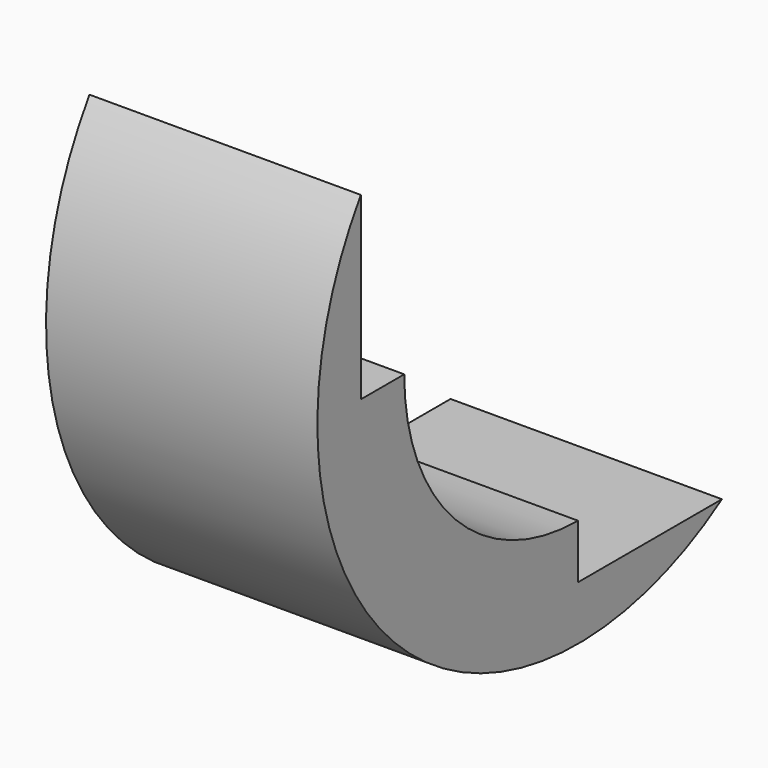
from build123d import *

# Parameters (mm, degrees)
BOX006_W      = 5
BOX006_H      = 10
BOX006_DEPTH  = 8
BOX005_W      = 5
BOX005_H      = 8
BOX005_DEPTH  = 10
TUBE002_R     = 6
TUBE002_R_2   = 4
TUBE002_DEPTH = 5


with BuildPart() as cube006:
    # Box006 → Box006 (new body)
    with BuildSketch(Plane(origin=(0, -2, 3), x_dir=(1, 0, 0), z_dir=(0, 0, 1))):
        with Locations((2.5, 5)):
            Rectangle(BOX006_W, BOX006_H)
    extrude(amount=BOX006_DEPTH)


with BuildPart() as cube005:
    # Box005 → Box005 (new body)
    with BuildSketch(Plane(origin=(0, 3, -2), x_dir=(1, 0, 0), z_dir=(0, 0, 1))):
        with Locations((2.5, 4)):
            Rectangle(BOX005_W, BOX005_H)
    extrude(amount=BOX005_DEPTH)


with BuildPart() as cut005:
    # Tube002 → Tube002 (new body)
    with BuildSketch(Plane(origin=(0, 3, 3), x_dir=(0, 0, -1), z_dir=(1, 0, 0))):
        Circle(TUBE002_R)
        Circle(TUBE002_R_2, mode=Mode.SUBTRACT)
    extrude(amount=TUBE002_DEPTH)

    # Cut004: cut Cube005
    add(cube005.part, mode=Mode.SUBTRACT)

    # Cut005: cut Cube006
    add(cube006.part, mode=Mode.SUBTRACT)


solid = cut005.part
